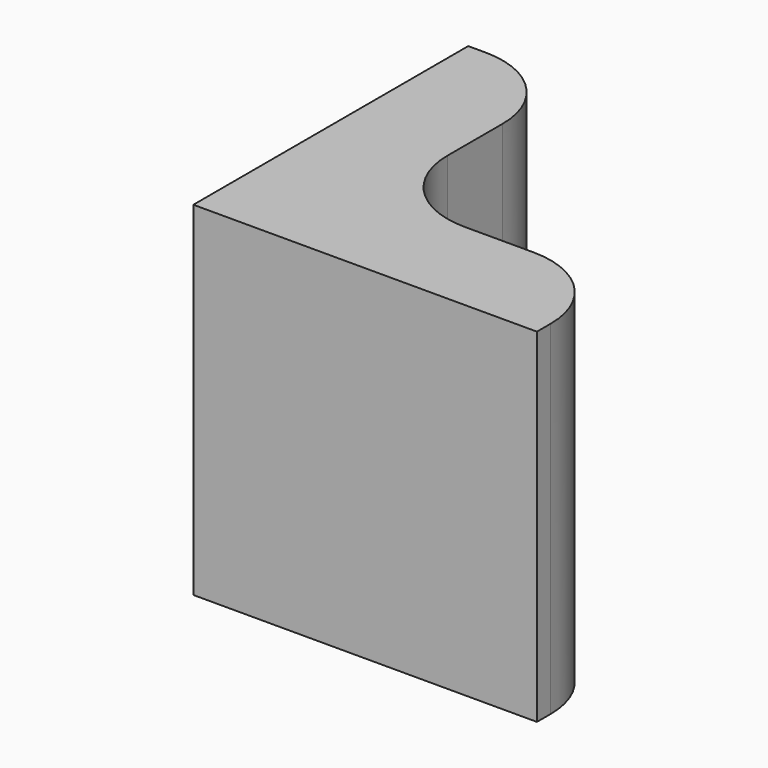
from build123d import *

# Parameters (mm, degrees)
F1_DEPTH = 25.4


with BuildPart() as f1:
    # F0 (on Top) → F1 (new body)
    with BuildSketch(Plane.XY):
        with BuildLine():
            Line((1.27, 25.4), (0, 25.4))
            Line((0, 25.4), (0, 0))
            Line((0, 0), (25.4, 0))
            Line((25.4, 0), (25.4, 1.27))
            ThreePointArc((25.4, 1.27), (23.540128, 5.760128), (19.05, 7.62))
            Line((19.05, 7.62), (13.97, 7.62))
            ThreePointArc((13.97, 7.62), (9.479872, 9.479872), (7.62, 13.97))
            Line((7.62, 13.97), (7.62, 19.05))
            ThreePointArc((7.62, 19.05), (5.760128, 23.540128), (1.27, 25.4))
        make_face()
    extrude(amount=F1_DEPTH)


solid = f1.part
